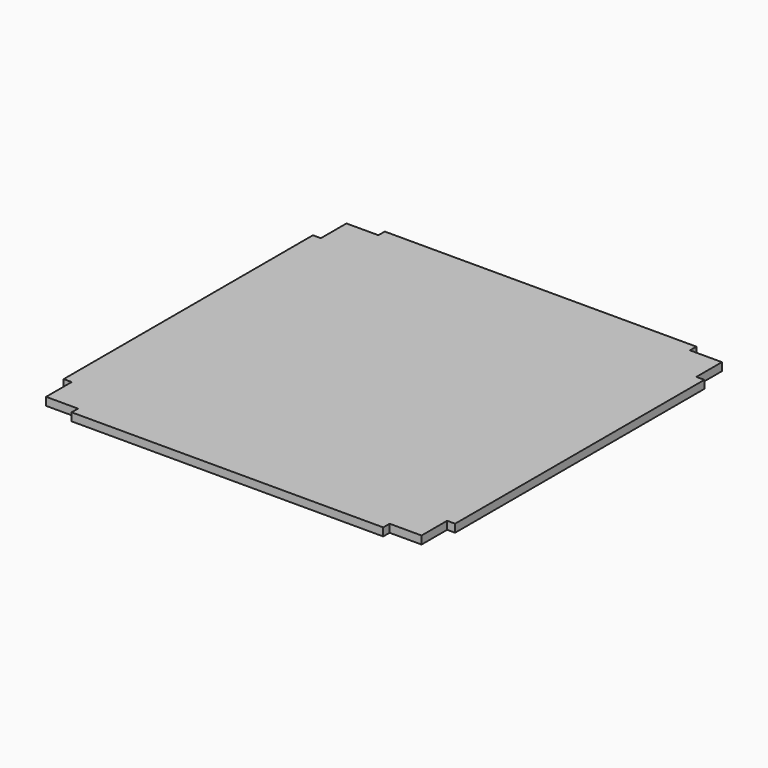
from build123d import *

# Parameters (mm, degrees)
F0_W     = 78
F0_H     = 2
F0_W_2   = 2
F0_H_2   = 78
F1_DEPTH = 2


with BuildPart() as f1:
    # F0 (on Top) → F1 (new body)
    with BuildSketch(Plane.XY):
        with Locations((0, 48)):
            Rectangle(F0_W, F0_H)
        Polygon((47, 47), (39, 47), (-39, 47), (-47, 47), (-47, 39), (-47, -39), (-47, -47), (-39, -47), (39, -47), (47, -47), (47, -39), (47, 39), align=None)
        with Locations((48, 0)):
            Rectangle(F0_W_2, F0_H_2)
        with Locations((-48, 0)):
            Rectangle(F0_W_2, F0_H_2)
        with Locations((0, -48)):
            Rectangle(F0_W, F0_H)
    extrude(amount=F1_DEPTH)


solid = f1.part
